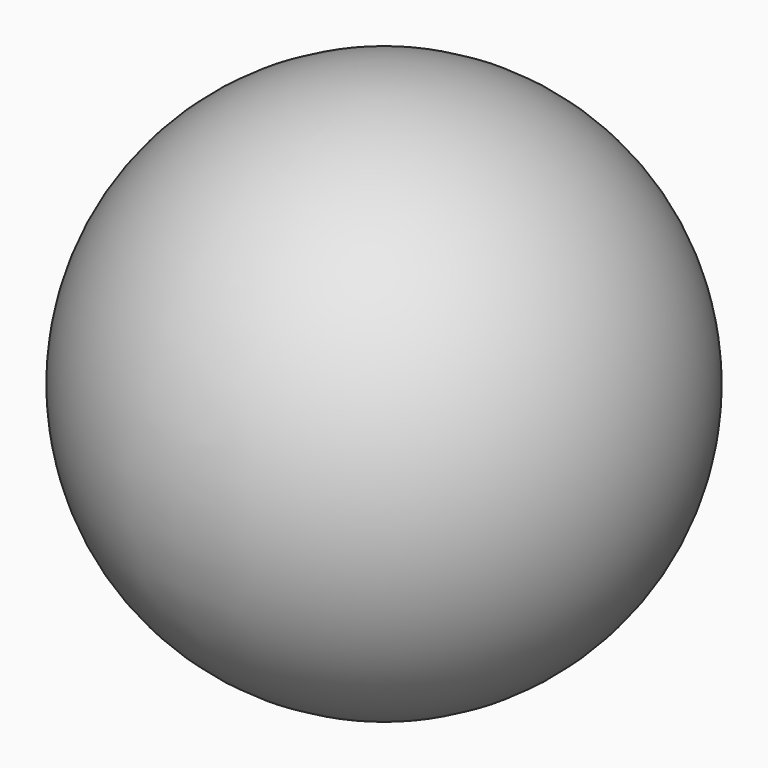
from build123d import *


with BuildPart() as f1:
    # F0 (on Right) → F1 (revolve)
    with BuildSketch(Plane.YZ):
        with BuildLine():
            Line((0, -65.727893), (0, 65.727893))
            ThreePointArc((0, 65.727893), (-65.727893, 0), (0, -65.727893))
        make_face()
    revolve(axis=Axis((0, 0, -0.284392), (0, 0, -1)))


solid = f1.part
